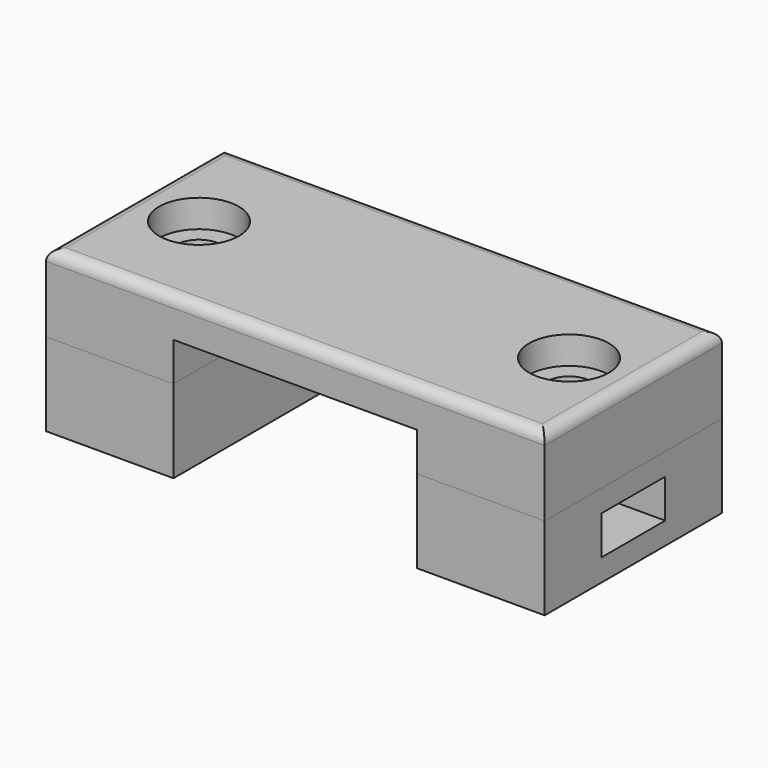
from build123d import *

# Parameters (mm, degrees)
F0_W      = 10
F0_H      = 7.2
F0_R      = 2
F1_DEPTH  = 2
F2_DEPTH  = 3.5
F3_W      = 45
F3_H      = 20
F4_DEPTH  = 2
F5_DEPTH  = 25
F6_W      = 22
F6_H      = 20
F6_R      = 0.9
F7_DEPTH  = 25
F6_R_2    = 1.4
F8_DEPTH  = 1.3
F6_W_2    = 11.5
F6_R_3    = 2
F9_DEPTH  = 7
F10_R     = 3.6
F10_R_2   = 2
F11_DEPTH = 2.5
F12_R     = 1
F13_W     = 22
F13_H     = 3.5
F14_DEPTH = 25


with BuildPart() as f1:
    # F0 (on Top) → F1 (new body)
    with BuildSketch(Plane.XY):
        Polygon((22.5, 3.6), (22.5, 10), (-22.5, 10), (-22.5, 3.6), (-12.5, 3.6), (-12.5, -3.6), (-22.5, -3.6), (-22.5, -10), (22.5, -10), (22.5, -3.6), (12.5, -3.6), (12.5, 3.6), align=None)
        with Locations((-17.5, 0)):
            Rectangle(F0_W, F0_H)
        with Locations((-16.7, 0)):
            Circle(F0_R, mode=Mode.SUBTRACT)
        with Locations((17.5, 0)):
            Rectangle(F0_W, F0_H)
        with Locations((16.7, 0)):
            Circle(F0_R, mode=Mode.SUBTRACT)
    extrude(amount=-F1_DEPTH)

    # F0 (on Top) → F2 (join)
    with BuildSketch(Plane.XY):
        Polygon((22.5, 3.6), (22.5, 10), (-22.5, 10), (-22.5, 3.6), (-12.5, 3.6), (-12.5, -3.6), (-22.5, -3.6), (-22.5, -10), (22.5, -10), (22.5, -3.6), (12.5, -3.6), (12.5, 3.6), align=None)
    extrude(amount=F2_DEPTH)

    # F3 (on face) → F4 (join)
    with BuildSketch(Plane.XY.offset(3.5)):
        Rectangle(F3_W, F3_H)
    extrude(amount=F4_DEPTH)

    # F0 (on Top) → F5 (cut)
    with BuildSketch(Plane.XY):
        with Locations((16.7, 0)):
            Circle(F0_R)
        with Locations((-16.7, 0)):
            Circle(F0_R)
    extrude(amount=F5_DEPTH, mode=Mode.SUBTRACT)

    # F6 (on face) → F7 (cut)
    with BuildSketch(Plane.XY.offset(5.5)):
        Rectangle(F6_W, F6_H)
        with Locations((-16.7, 6)):
            Circle(F6_R)
        with Locations((16.7, 6)):
            Circle(F6_R)
        with Locations((16.7, -6)):
            Circle(F6_R)
        with Locations((-16.7, -6)):
            Circle(F6_R)
    extrude(amount=-F7_DEPTH, mode=Mode.SUBTRACT)

    # F6 (on face) → F8 (cut)
    with BuildSketch(Plane.XY.offset(5.5)):
        with Locations((-16.7, 6)):
            Circle(F6_R_2)
        with Locations((-16.7, 6)):
            Circle(F6_R, mode=Mode.SUBTRACT)
        with Locations((-16.7, -6)):
            Circle(F6_R_2)
        with Locations((-16.7, -6)):
            Circle(F6_R, mode=Mode.SUBTRACT)
        with Locations((16.7, -6)):
            Circle(F6_R_2)
        with Locations((16.7, -6)):
            Circle(F6_R, mode=Mode.SUBTRACT)
        with Locations((16.7, 6)):
            Circle(F6_R_2)
        with Locations((16.7, 6)):
            Circle(F6_R, mode=Mode.SUBTRACT)
    extrude(amount=-F8_DEPTH, mode=Mode.SUBTRACT)


with BuildPart() as f9:
    # F6 (on face) → F9 (new body)
    with BuildSketch(Plane.XY.offset(5.5)):
        Rectangle(F6_W, F6_H)
        with Locations((-16.75, 0)):
            Rectangle(F6_W_2, F6_H)
        with Locations((-16.7, -6)):
            Circle(F6_R_2, mode=Mode.SUBTRACT)
        with Locations((-16.7, 0)):
            Circle(F6_R_3, mode=Mode.SUBTRACT)
        with Locations((-16.7, 6)):
            Circle(F6_R_2, mode=Mode.SUBTRACT)
        with Locations((16.75, 0)):
            Rectangle(F6_W_2, F6_H)
        with Locations((16.7, -6)):
            Circle(F6_R_2, mode=Mode.SUBTRACT)
        with Locations((16.7, 0)):
            Circle(F6_R_3, mode=Mode.SUBTRACT)
        with Locations((16.7, 6)):
            Circle(F6_R_2, mode=Mode.SUBTRACT)
        with Locations((16.7, 6)):
            Circle(F6_R_2)
        with Locations((16.7, 6)):
            Circle(F6_R, mode=Mode.SUBTRACT)
        with Locations((16.7, -6)):
            Circle(F6_R_2)
        with Locations((16.7, -6)):
            Circle(F6_R, mode=Mode.SUBTRACT)
        with Locations((-16.7, -6)):
            Circle(F6_R_2)
        with Locations((-16.7, -6)):
            Circle(F6_R, mode=Mode.SUBTRACT)
        with Locations((-16.7, 6)):
            Circle(F6_R_2)
        with Locations((-16.7, 6)):
            Circle(F6_R, mode=Mode.SUBTRACT)
        with Locations((16.7, 6)):
            Circle(F6_R)
        with Locations((16.7, -6)):
            Circle(F6_R)
        with Locations((-16.7, -6)):
            Circle(F6_R)
        with Locations((-16.7, 6)):
            Circle(F6_R)
    extrude(amount=F9_DEPTH)

    # F10 (on face) → F11 (cut)
    with BuildSketch(Plane.XY.offset(12.5)):
        with Locations((-16.7, 0)):
            Circle(F10_R)
        with Locations((-16.7, 0)):
            Circle(F10_R_2, mode=Mode.SUBTRACT)
        with Locations((16.7, 0)):
            Circle(F10_R)
        with Locations((16.7, 0)):
            Circle(F10_R_2, mode=Mode.SUBTRACT)
    extrude(amount=-F11_DEPTH, mode=Mode.SUBTRACT)

    # F12
    f12_edges = [f9.edges().sort_by_distance(p)[0] for p in [
        (0, -10, 12.5),
        (22.5, 0, 12.5),
        (0, 10, 12.5),
        (-22.5, 0, 12.5),
    ]]
    fillet(f12_edges, radius=F12_R)

    # F13 (on face) → F14 (cut)
    with BuildSketch(Plane.XZ.offset(10)):
        with Locations((0, 7.25)):
            Rectangle(F13_W, F13_H)
    extrude(amount=-F14_DEPTH, mode=Mode.SUBTRACT)


solid = Compound([f1.part, f9.part])
